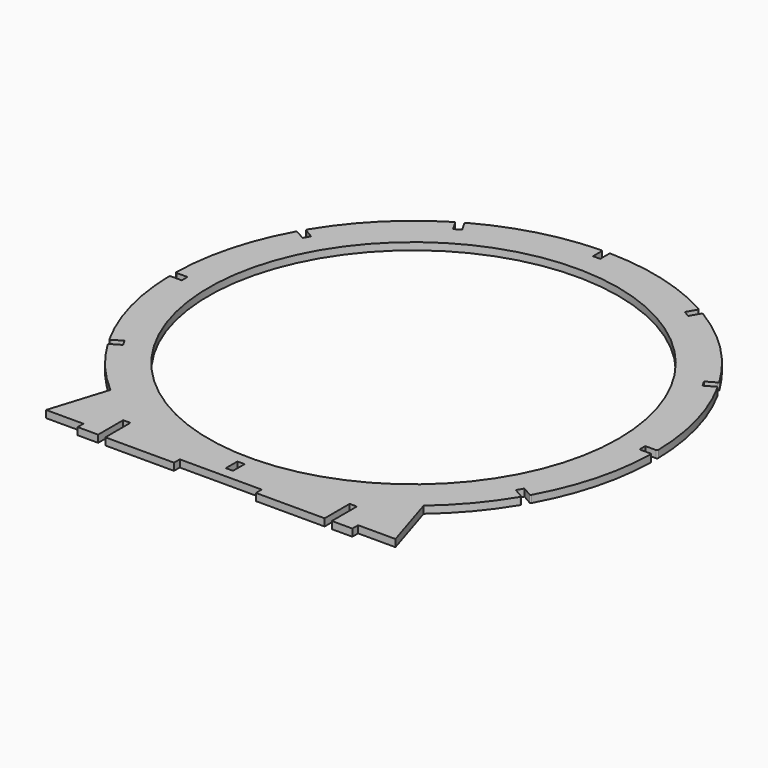
from build123d import *

# Parameters (mm, degrees)
F0_W     = 3
F0_H     = 6
F0_R     = 85
F1_DEPTH = 3


with BuildPart() as f1:
    # F0 (on Top) → F1 (new body)
    with BuildSketch(Plane.XY):
        with BuildLine():
            ThreePointArc((-1.5, 99.479897), (-1.650018, 99.836986), (-2.01005, 99.979796))
            ThreePointArc((-2.01005, 99.979796), (-25.881905, 96.592583), (-48.249144, 87.590069))
            ThreePointArc((-48.249144, 87.590069), (-48.489536, 87.286376), (-48.440911, 86.902118))
            Line((-48.440911, 86.902118), (-46.195337, 83.01267))
            Line((-46.195337, 83.01267), (-48.793413, 81.51267))
            Line((-48.793413, 81.51267), (-51.038987, 85.402118))
            ThreePointArc((-51.038987, 85.402118), (-51.347451, 85.636358), (-51.730653, 85.580018))
            ThreePointArc((-51.730653, 85.580018), (-70.710678, 70.710678), (-85.580018, 51.730653))
            ThreePointArc((-85.580018, 51.730653), (-85.636358, 51.347451), (-85.402118, 51.038987))
            Line((-85.402118, 51.038987), (-81.51267, 48.793413))
            Line((-81.51267, 48.793413), (-83.01267, 46.195337))
            Line((-83.01267, 46.195337), (-86.902118, 48.440911))
            ThreePointArc((-86.902118, 48.440911), (-87.286376, 48.489536), (-87.590069, 48.249144))
            ThreePointArc((-87.590069, 48.249144), (-96.592583, 25.881905), (-99.979796, 2.01005))
            ThreePointArc((-99.979796, 2.01005), (-99.836986, 1.650018), (-99.479897, 1.5))
            Line((-99.479897, 1.5), (-94.988749, 1.5))
            Line((-94.988749, 1.5), (-94.988749, -1.5))
            Line((-94.988749, -1.5), (-99.479897, -1.5))
            ThreePointArc((-99.479897, -1.5), (-99.836986, -1.650018), (-99.979796, -2.01005))
            ThreePointArc((-99.979796, -2.01005), (-96.592583, -25.881905), (-87.590069, -48.249144))
            ThreePointArc((-87.590069, -48.249144), (-87.286376, -48.489536), (-86.902118, -48.440911))
            Line((-86.902118, -48.440911), (-83.01267, -46.195337))
            Line((-83.01267, -46.195337), (-81.51267, -48.793413))
            Line((-81.51267, -48.793413), (-85.402118, -51.038987))
            ThreePointArc((-85.402118, -51.038987), (-85.636358, -51.347451), (-85.580018, -51.730653))
            ThreePointArc((-85.580018, -51.730653), (-76.261104, -64.685733), (-65, -75.993421))
            Line((-65, -75.993421), (-72.5, -100))
            Line((-72.5, -100), (-57, -100))
            Line((-57, -100), (-57, -103))
            Line((-57, -103), (-48.5, -103))
            Line((-48.5, -103), (-48.5, -90))
            Line((-48.5, -90), (-45.5, -90))
            Line((-45.5, -90), (-45.5, -103))
            Line((-45.5, -103), (-17, -103))
            Line((-17, -103), (-17, -100))
            Line((-17, -100), (17, -100))
            Line((17, -100), (17, -103))
            Line((17, -103), (45.5, -103))
            Line((45.5, -103), (45.5, -90))
            Line((45.5, -90), (48.5, -90))
            Line((48.5, -90), (48.5, -103))
            Line((48.5, -103), (57, -103))
            Line((57, -103), (57, -100))
            Line((57, -100), (72.5, -100))
            Line((72.5, -100), (65, -75.993421))
            ThreePointArc((65, -75.993421), (76.261104, -64.685733), (85.580018, -51.730653))
            ThreePointArc((85.580018, -51.730653), (85.636358, -51.347451), (85.402118, -51.038987))
            Line((85.402118, -51.038987), (81.51267, -48.793413))
            Line((81.51267, -48.793413), (83.01267, -46.195337))
            Line((83.01267, -46.195337), (86.902118, -48.440911))
            ThreePointArc((86.902118, -48.440911), (87.286376, -48.489536), (87.590069, -48.249144))
            ThreePointArc((87.590069, -48.249144), (96.592583, -25.881905), (99.979796, -2.01005))
            ThreePointArc((99.979796, -2.01005), (99.836986, -1.650018), (99.479897, -1.5))
            Line((99.479897, -1.5), (94.988749, -1.5))
            Line((94.988749, -1.5), (94.988749, 1.5))
            Line((94.988749, 1.5), (99.479897, 1.5))
            ThreePointArc((99.479897, 1.5), (99.836986, 1.650018), (99.979796, 2.01005))
            ThreePointArc((99.979796, 2.01005), (96.592583, 25.881905), (87.590069, 48.249144))
            ThreePointArc((87.590069, 48.249144), (87.286376, 48.489536), (86.902118, 48.440911))
            Line((86.902118, 48.440911), (83.01267, 46.195337))
            Line((83.01267, 46.195337), (81.51267, 48.793413))
            Line((81.51267, 48.793413), (85.402118, 51.038987))
            ThreePointArc((85.402118, 51.038987), (85.636358, 51.347451), (85.580018, 51.730653))
            ThreePointArc((85.580018, 51.730653), (70.710678, 70.710678), (51.730653, 85.580018))
            ThreePointArc((51.730653, 85.580018), (51.347451, 85.636358), (51.038987, 85.402118))
            Line((51.038987, 85.402118), (48.793413, 81.51267))
            Line((48.793413, 81.51267), (46.195337, 83.01267))
            Line((46.195337, 83.01267), (48.440911, 86.902118))
            ThreePointArc((48.440911, 86.902118), (48.489536, 87.286376), (48.249144, 87.590069))
            ThreePointArc((48.249144, 87.590069), (25.881905, 96.592583), (2.01005, 99.979796))
            ThreePointArc((2.01005, 99.979796), (1.650018, 99.836986), (1.5, 99.479897))
            Line((1.5, 99.479897), (1.5, 94.988749))
            Line((1.5, 94.988749), (-1.5, 94.988749))
            Line((-1.5, 94.988749), (-1.5, 99.479897))
        make_face()
        with Locations((0, -92.5)):
            Rectangle(F0_W, F0_H, mode=Mode.SUBTRACT)
        Circle(F0_R, mode=Mode.SUBTRACT)
        with BuildLine():
            ThreePointArc((-1.5, 99.479897), (-1.650018, 99.836986), (-2.01005, 99.979796))
            ThreePointArc((-2.01005, 99.979796), (-25.881905, 96.592583), (-48.249144, 87.590069))
            ThreePointArc((-48.249144, 87.590069), (-48.489536, 87.286376), (-48.440911, 86.902118))
            Line((-48.440911, 86.902118), (-46.195337, 83.01267))
            Line((-46.195337, 83.01267), (-48.793413, 81.51267))
            Line((-48.793413, 81.51267), (-51.038987, 85.402118))
            ThreePointArc((-51.038987, 85.402118), (-51.347451, 85.636358), (-51.730653, 85.580018))
            ThreePointArc((-51.730653, 85.580018), (-70.710678, 70.710678), (-85.580018, 51.730653))
            ThreePointArc((-85.580018, 51.730653), (-85.636358, 51.347451), (-85.402118, 51.038987))
            Line((-85.402118, 51.038987), (-81.51267, 48.793413))
            Line((-81.51267, 48.793413), (-83.01267, 46.195337))
            Line((-83.01267, 46.195337), (-86.902118, 48.440911))
            ThreePointArc((-86.902118, 48.440911), (-87.286376, 48.489536), (-87.590069, 48.249144))
            ThreePointArc((-87.590069, 48.249144), (-96.592583, 25.881905), (-99.979796, 2.01005))
            ThreePointArc((-99.979796, 2.01005), (-99.836986, 1.650018), (-99.479897, 1.5))
            Line((-99.479897, 1.5), (-94.988749, 1.5))
            Line((-94.988749, 1.5), (-94.988749, -1.5))
            Line((-94.988749, -1.5), (-99.479897, -1.5))
            ThreePointArc((-99.479897, -1.5), (-99.836986, -1.650018), (-99.979796, -2.01005))
            ThreePointArc((-99.979796, -2.01005), (-96.592583, -25.881905), (-87.590069, -48.249144))
            ThreePointArc((-87.590069, -48.249144), (-87.286376, -48.489536), (-86.902118, -48.440911))
            Line((-86.902118, -48.440911), (-83.01267, -46.195337))
            Line((-83.01267, -46.195337), (-81.51267, -48.793413))
            Line((-81.51267, -48.793413), (-85.402118, -51.038987))
            ThreePointArc((-85.402118, -51.038987), (-85.636358, -51.347451), (-85.580018, -51.730653))
            ThreePointArc((-85.580018, -51.730653), (-76.261104, -64.685733), (-65, -75.993421))
            Line((-65, -75.993421), (-72.5, -100))
            Line((-72.5, -100), (-57, -100))
            Line((-57, -100), (-57, -103))
            Line((-57, -103), (-48.5, -103))
            Line((-48.5, -103), (-48.5, -90))
            Line((-48.5, -90), (-45.5, -90))
            Line((-45.5, -90), (-45.5, -103))
            Line((-45.5, -103), (-17, -103))
            Line((-17, -103), (-17, -100))
            Line((-17, -100), (17, -100))
            Line((17, -100), (17, -103))
            Line((17, -103), (45.5, -103))
            Line((45.5, -103), (45.5, -90))
            Line((45.5, -90), (48.5, -90))
            Line((48.5, -90), (48.5, -103))
            Line((48.5, -103), (57, -103))
            Line((57, -103), (57, -100))
            Line((57, -100), (72.5, -100))
            Line((72.5, -100), (65, -75.993421))
            ThreePointArc((65, -75.993421), (76.261104, -64.685733), (85.580018, -51.730653))
            ThreePointArc((85.580018, -51.730653), (85.636358, -51.347451), (85.402118, -51.038987))
            Line((85.402118, -51.038987), (81.51267, -48.793413))
            Line((81.51267, -48.793413), (83.01267, -46.195337))
            Line((83.01267, -46.195337), (86.902118, -48.440911))
            ThreePointArc((86.902118, -48.440911), (87.286376, -48.489536), (87.590069, -48.249144))
            ThreePointArc((87.590069, -48.249144), (96.592583, -25.881905), (99.979796, -2.01005))
            ThreePointArc((99.979796, -2.01005), (99.836986, -1.650018), (99.479897, -1.5))
            Line((99.479897, -1.5), (94.988749, -1.5))
            Line((94.988749, -1.5), (94.988749, 1.5))
            Line((94.988749, 1.5), (99.479897, 1.5))
            ThreePointArc((99.479897, 1.5), (99.836986, 1.650018), (99.979796, 2.01005))
            ThreePointArc((99.979796, 2.01005), (96.592583, 25.881905), (87.590069, 48.249144))
            ThreePointArc((87.590069, 48.249144), (87.286376, 48.489536), (86.902118, 48.440911))
            Line((86.902118, 48.440911), (83.01267, 46.195337))
            Line((83.01267, 46.195337), (81.51267, 48.793413))
            Line((81.51267, 48.793413), (85.402118, 51.038987))
            ThreePointArc((85.402118, 51.038987), (85.636358, 51.347451), (85.580018, 51.730653))
            ThreePointArc((85.580018, 51.730653), (70.710678, 70.710678), (51.730653, 85.580018))
            ThreePointArc((51.730653, 85.580018), (51.347451, 85.636358), (51.038987, 85.402118))
            Line((51.038987, 85.402118), (48.793413, 81.51267))
            Line((48.793413, 81.51267), (46.195337, 83.01267))
            Line((46.195337, 83.01267), (48.440911, 86.902118))
            ThreePointArc((48.440911, 86.902118), (48.489536, 87.286376), (48.249144, 87.590069))
            ThreePointArc((48.249144, 87.590069), (25.881905, 96.592583), (2.01005, 99.979796))
            ThreePointArc((2.01005, 99.979796), (1.650018, 99.836986), (1.5, 99.479897))
            Line((1.5, 99.479897), (1.5, 94.988749))
            Line((1.5, 94.988749), (-1.5, 94.988749))
            Line((-1.5, 94.988749), (-1.5, 99.479897))
        make_face()
        with Locations((0, -92.5)):
            Rectangle(F0_W, F0_H, mode=Mode.SUBTRACT)
        Circle(F0_R, mode=Mode.SUBTRACT)
        with BuildLine():
            ThreePointArc((-1.5, 99.479897), (-1.650018, 99.836986), (-2.01005, 99.979796))
            ThreePointArc((-2.01005, 99.979796), (-25.881905, 96.592583), (-48.249144, 87.590069))
            ThreePointArc((-48.249144, 87.590069), (-48.489536, 87.286376), (-48.440911, 86.902118))
            Line((-48.440911, 86.902118), (-46.195337, 83.01267))
            Line((-46.195337, 83.01267), (-48.793413, 81.51267))
            Line((-48.793413, 81.51267), (-51.038987, 85.402118))
            ThreePointArc((-51.038987, 85.402118), (-51.347451, 85.636358), (-51.730653, 85.580018))
            ThreePointArc((-51.730653, 85.580018), (-70.710678, 70.710678), (-85.580018, 51.730653))
            ThreePointArc((-85.580018, 51.730653), (-85.636358, 51.347451), (-85.402118, 51.038987))
            Line((-85.402118, 51.038987), (-81.51267, 48.793413))
            Line((-81.51267, 48.793413), (-83.01267, 46.195337))
            Line((-83.01267, 46.195337), (-86.902118, 48.440911))
            ThreePointArc((-86.902118, 48.440911), (-87.286376, 48.489536), (-87.590069, 48.249144))
            ThreePointArc((-87.590069, 48.249144), (-96.592583, 25.881905), (-99.979796, 2.01005))
            ThreePointArc((-99.979796, 2.01005), (-99.836986, 1.650018), (-99.479897, 1.5))
            Line((-99.479897, 1.5), (-94.988749, 1.5))
            Line((-94.988749, 1.5), (-94.988749, -1.5))
            Line((-94.988749, -1.5), (-99.479897, -1.5))
            ThreePointArc((-99.479897, -1.5), (-99.836986, -1.650018), (-99.979796, -2.01005))
            ThreePointArc((-99.979796, -2.01005), (-96.592583, -25.881905), (-87.590069, -48.249144))
            ThreePointArc((-87.590069, -48.249144), (-87.286376, -48.489536), (-86.902118, -48.440911))
            Line((-86.902118, -48.440911), (-83.01267, -46.195337))
            Line((-83.01267, -46.195337), (-81.51267, -48.793413))
            Line((-81.51267, -48.793413), (-85.402118, -51.038987))
            ThreePointArc((-85.402118, -51.038987), (-85.636358, -51.347451), (-85.580018, -51.730653))
            ThreePointArc((-85.580018, -51.730653), (-76.261104, -64.685733), (-65, -75.993421))
            Line((-65, -75.993421), (-72.5, -100))
            Line((-72.5, -100), (-57, -100))
            Line((-57, -100), (-57, -103))
            Line((-57, -103), (-48.5, -103))
            Line((-48.5, -103), (-48.5, -90))
            Line((-48.5, -90), (-45.5, -90))
            Line((-45.5, -90), (-45.5, -103))
            Line((-45.5, -103), (-17, -103))
            Line((-17, -103), (-17, -100))
            Line((-17, -100), (17, -100))
            Line((17, -100), (17, -103))
            Line((17, -103), (45.5, -103))
            Line((45.5, -103), (45.5, -90))
            Line((45.5, -90), (48.5, -90))
            Line((48.5, -90), (48.5, -103))
            Line((48.5, -103), (57, -103))
            Line((57, -103), (57, -100))
            Line((57, -100), (72.5, -100))
            Line((72.5, -100), (65, -75.993421))
            ThreePointArc((65, -75.993421), (76.261104, -64.685733), (85.580018, -51.730653))
            ThreePointArc((85.580018, -51.730653), (85.636358, -51.347451), (85.402118, -51.038987))
            Line((85.402118, -51.038987), (81.51267, -48.793413))
            Line((81.51267, -48.793413), (83.01267, -46.195337))
            Line((83.01267, -46.195337), (86.902118, -48.440911))
            ThreePointArc((86.902118, -48.440911), (87.286376, -48.489536), (87.590069, -48.249144))
            ThreePointArc((87.590069, -48.249144), (96.592583, -25.881905), (99.979796, -2.01005))
            ThreePointArc((99.979796, -2.01005), (99.836986, -1.650018), (99.479897, -1.5))
            Line((99.479897, -1.5), (94.988749, -1.5))
            Line((94.988749, -1.5), (94.988749, 1.5))
            Line((94.988749, 1.5), (99.479897, 1.5))
            ThreePointArc((99.479897, 1.5), (99.836986, 1.650018), (99.979796, 2.01005))
            ThreePointArc((99.979796, 2.01005), (96.592583, 25.881905), (87.590069, 48.249144))
            ThreePointArc((87.590069, 48.249144), (87.286376, 48.489536), (86.902118, 48.440911))
            Line((86.902118, 48.440911), (83.01267, 46.195337))
            Line((83.01267, 46.195337), (81.51267, 48.793413))
            Line((81.51267, 48.793413), (85.402118, 51.038987))
            ThreePointArc((85.402118, 51.038987), (85.636358, 51.347451), (85.580018, 51.730653))
            ThreePointArc((85.580018, 51.730653), (70.710678, 70.710678), (51.730653, 85.580018))
            ThreePointArc((51.730653, 85.580018), (51.347451, 85.636358), (51.038987, 85.402118))
            Line((51.038987, 85.402118), (48.793413, 81.51267))
            Line((48.793413, 81.51267), (46.195337, 83.01267))
            Line((46.195337, 83.01267), (48.440911, 86.902118))
            ThreePointArc((48.440911, 86.902118), (48.489536, 87.286376), (48.249144, 87.590069))
            ThreePointArc((48.249144, 87.590069), (25.881905, 96.592583), (2.01005, 99.979796))
            ThreePointArc((2.01005, 99.979796), (1.650018, 99.836986), (1.5, 99.479897))
            Line((1.5, 99.479897), (1.5, 94.988749))
            Line((1.5, 94.988749), (-1.5, 94.988749))
            Line((-1.5, 94.988749), (-1.5, 99.479897))
        make_face()
        with Locations((0, -92.5)):
            Rectangle(F0_W, F0_H, mode=Mode.SUBTRACT)
        Circle(F0_R, mode=Mode.SUBTRACT)
        with BuildLine():
            ThreePointArc((-1.5, 99.479897), (-1.650018, 99.836986), (-2.01005, 99.979796))
            ThreePointArc((-2.01005, 99.979796), (-25.881905, 96.592583), (-48.249144, 87.590069))
            ThreePointArc((-48.249144, 87.590069), (-48.489536, 87.286376), (-48.440911, 86.902118))
            Line((-48.440911, 86.902118), (-46.195337, 83.01267))
            Line((-46.195337, 83.01267), (-48.793413, 81.51267))
            Line((-48.793413, 81.51267), (-51.038987, 85.402118))
            ThreePointArc((-51.038987, 85.402118), (-51.347451, 85.636358), (-51.730653, 85.580018))
            ThreePointArc((-51.730653, 85.580018), (-70.710678, 70.710678), (-85.580018, 51.730653))
            ThreePointArc((-85.580018, 51.730653), (-85.636358, 51.347451), (-85.402118, 51.038987))
            Line((-85.402118, 51.038987), (-81.51267, 48.793413))
            Line((-81.51267, 48.793413), (-83.01267, 46.195337))
            Line((-83.01267, 46.195337), (-86.902118, 48.440911))
            ThreePointArc((-86.902118, 48.440911), (-87.286376, 48.489536), (-87.590069, 48.249144))
            ThreePointArc((-87.590069, 48.249144), (-96.592583, 25.881905), (-99.979796, 2.01005))
            ThreePointArc((-99.979796, 2.01005), (-99.836986, 1.650018), (-99.479897, 1.5))
            Line((-99.479897, 1.5), (-94.988749, 1.5))
            Line((-94.988749, 1.5), (-94.988749, -1.5))
            Line((-94.988749, -1.5), (-99.479897, -1.5))
            ThreePointArc((-99.479897, -1.5), (-99.836986, -1.650018), (-99.979796, -2.01005))
            ThreePointArc((-99.979796, -2.01005), (-96.592583, -25.881905), (-87.590069, -48.249144))
            ThreePointArc((-87.590069, -48.249144), (-87.286376, -48.489536), (-86.902118, -48.440911))
            Line((-86.902118, -48.440911), (-83.01267, -46.195337))
            Line((-83.01267, -46.195337), (-81.51267, -48.793413))
            Line((-81.51267, -48.793413), (-85.402118, -51.038987))
            ThreePointArc((-85.402118, -51.038987), (-85.636358, -51.347451), (-85.580018, -51.730653))
            ThreePointArc((-85.580018, -51.730653), (-76.261104, -64.685733), (-65, -75.993421))
            Line((-65, -75.993421), (-72.5, -100))
            Line((-72.5, -100), (-57, -100))
            Line((-57, -100), (-57, -103))
            Line((-57, -103), (-48.5, -103))
            Line((-48.5, -103), (-48.5, -90))
            Line((-48.5, -90), (-45.5, -90))
            Line((-45.5, -90), (-45.5, -103))
            Line((-45.5, -103), (-17, -103))
            Line((-17, -103), (-17, -100))
            Line((-17, -100), (17, -100))
            Line((17, -100), (17, -103))
            Line((17, -103), (45.5, -103))
            Line((45.5, -103), (45.5, -90))
            Line((45.5, -90), (48.5, -90))
            Line((48.5, -90), (48.5, -103))
            Line((48.5, -103), (57, -103))
            Line((57, -103), (57, -100))
            Line((57, -100), (72.5, -100))
            Line((72.5, -100), (65, -75.993421))
            ThreePointArc((65, -75.993421), (76.261104, -64.685733), (85.580018, -51.730653))
            ThreePointArc((85.580018, -51.730653), (85.636358, -51.347451), (85.402118, -51.038987))
            Line((85.402118, -51.038987), (81.51267, -48.793413))
            Line((81.51267, -48.793413), (83.01267, -46.195337))
            Line((83.01267, -46.195337), (86.902118, -48.440911))
            ThreePointArc((86.902118, -48.440911), (87.286376, -48.489536), (87.590069, -48.249144))
            ThreePointArc((87.590069, -48.249144), (96.592583, -25.881905), (99.979796, -2.01005))
            ThreePointArc((99.979796, -2.01005), (99.836986, -1.650018), (99.479897, -1.5))
            Line((99.479897, -1.5), (94.988749, -1.5))
            Line((94.988749, -1.5), (94.988749, 1.5))
            Line((94.988749, 1.5), (99.479897, 1.5))
            ThreePointArc((99.479897, 1.5), (99.836986, 1.650018), (99.979796, 2.01005))
            ThreePointArc((99.979796, 2.01005), (96.592583, 25.881905), (87.590069, 48.249144))
            ThreePointArc((87.590069, 48.249144), (87.286376, 48.489536), (86.902118, 48.440911))
            Line((86.902118, 48.440911), (83.01267, 46.195337))
            Line((83.01267, 46.195337), (81.51267, 48.793413))
            Line((81.51267, 48.793413), (85.402118, 51.038987))
            ThreePointArc((85.402118, 51.038987), (85.636358, 51.347451), (85.580018, 51.730653))
            ThreePointArc((85.580018, 51.730653), (70.710678, 70.710678), (51.730653, 85.580018))
            ThreePointArc((51.730653, 85.580018), (51.347451, 85.636358), (51.038987, 85.402118))
            Line((51.038987, 85.402118), (48.793413, 81.51267))
            Line((48.793413, 81.51267), (46.195337, 83.01267))
            Line((46.195337, 83.01267), (48.440911, 86.902118))
            ThreePointArc((48.440911, 86.902118), (48.489536, 87.286376), (48.249144, 87.590069))
            ThreePointArc((48.249144, 87.590069), (25.881905, 96.592583), (2.01005, 99.979796))
            ThreePointArc((2.01005, 99.979796), (1.650018, 99.836986), (1.5, 99.479897))
            Line((1.5, 99.479897), (1.5, 94.988749))
            Line((1.5, 94.988749), (-1.5, 94.988749))
            Line((-1.5, 94.988749), (-1.5, 99.479897))
        make_face()
        with Locations((0, -92.5)):
            Rectangle(F0_W, F0_H, mode=Mode.SUBTRACT)
        Circle(F0_R, mode=Mode.SUBTRACT)
        with BuildLine():
            ThreePointArc((-1.5, 99.479897), (-1.650018, 99.836986), (-2.01005, 99.979796))
            ThreePointArc((-2.01005, 99.979796), (-25.881905, 96.592583), (-48.249144, 87.590069))
            ThreePointArc((-48.249144, 87.590069), (-48.489536, 87.286376), (-48.440911, 86.902118))
            Line((-48.440911, 86.902118), (-46.195337, 83.01267))
            Line((-46.195337, 83.01267), (-48.793413, 81.51267))
            Line((-48.793413, 81.51267), (-51.038987, 85.402118))
            ThreePointArc((-51.038987, 85.402118), (-51.347451, 85.636358), (-51.730653, 85.580018))
            ThreePointArc((-51.730653, 85.580018), (-70.710678, 70.710678), (-85.580018, 51.730653))
            ThreePointArc((-85.580018, 51.730653), (-85.636358, 51.347451), (-85.402118, 51.038987))
            Line((-85.402118, 51.038987), (-81.51267, 48.793413))
            Line((-81.51267, 48.793413), (-83.01267, 46.195337))
            Line((-83.01267, 46.195337), (-86.902118, 48.440911))
            ThreePointArc((-86.902118, 48.440911), (-87.286376, 48.489536), (-87.590069, 48.249144))
            ThreePointArc((-87.590069, 48.249144), (-96.592583, 25.881905), (-99.979796, 2.01005))
            ThreePointArc((-99.979796, 2.01005), (-99.836986, 1.650018), (-99.479897, 1.5))
            Line((-99.479897, 1.5), (-94.988749, 1.5))
            Line((-94.988749, 1.5), (-94.988749, -1.5))
            Line((-94.988749, -1.5), (-99.479897, -1.5))
            ThreePointArc((-99.479897, -1.5), (-99.836986, -1.650018), (-99.979796, -2.01005))
            ThreePointArc((-99.979796, -2.01005), (-96.592583, -25.881905), (-87.590069, -48.249144))
            ThreePointArc((-87.590069, -48.249144), (-87.286376, -48.489536), (-86.902118, -48.440911))
            Line((-86.902118, -48.440911), (-83.01267, -46.195337))
            Line((-83.01267, -46.195337), (-81.51267, -48.793413))
            Line((-81.51267, -48.793413), (-85.402118, -51.038987))
            ThreePointArc((-85.402118, -51.038987), (-85.636358, -51.347451), (-85.580018, -51.730653))
            ThreePointArc((-85.580018, -51.730653), (-76.261104, -64.685733), (-65, -75.993421))
            Line((-65, -75.993421), (-72.5, -100))
            Line((-72.5, -100), (-57, -100))
            Line((-57, -100), (-57, -103))
            Line((-57, -103), (-48.5, -103))
            Line((-48.5, -103), (-48.5, -90))
            Line((-48.5, -90), (-45.5, -90))
            Line((-45.5, -90), (-45.5, -103))
            Line((-45.5, -103), (-17, -103))
            Line((-17, -103), (-17, -100))
            Line((-17, -100), (17, -100))
            Line((17, -100), (17, -103))
            Line((17, -103), (45.5, -103))
            Line((45.5, -103), (45.5, -90))
            Line((45.5, -90), (48.5, -90))
            Line((48.5, -90), (48.5, -103))
            Line((48.5, -103), (57, -103))
            Line((57, -103), (57, -100))
            Line((57, -100), (72.5, -100))
            Line((72.5, -100), (65, -75.993421))
            ThreePointArc((65, -75.993421), (76.261104, -64.685733), (85.580018, -51.730653))
            ThreePointArc((85.580018, -51.730653), (85.636358, -51.347451), (85.402118, -51.038987))
            Line((85.402118, -51.038987), (81.51267, -48.793413))
            Line((81.51267, -48.793413), (83.01267, -46.195337))
            Line((83.01267, -46.195337), (86.902118, -48.440911))
            ThreePointArc((86.902118, -48.440911), (87.286376, -48.489536), (87.590069, -48.249144))
            ThreePointArc((87.590069, -48.249144), (96.592583, -25.881905), (99.979796, -2.01005))
            ThreePointArc((99.979796, -2.01005), (99.836986, -1.650018), (99.479897, -1.5))
            Line((99.479897, -1.5), (94.988749, -1.5))
            Line((94.988749, -1.5), (94.988749, 1.5))
            Line((94.988749, 1.5), (99.479897, 1.5))
            ThreePointArc((99.479897, 1.5), (99.836986, 1.650018), (99.979796, 2.01005))
            ThreePointArc((99.979796, 2.01005), (96.592583, 25.881905), (87.590069, 48.249144))
            ThreePointArc((87.590069, 48.249144), (87.286376, 48.489536), (86.902118, 48.440911))
            Line((86.902118, 48.440911), (83.01267, 46.195337))
            Line((83.01267, 46.195337), (81.51267, 48.793413))
            Line((81.51267, 48.793413), (85.402118, 51.038987))
            ThreePointArc((85.402118, 51.038987), (85.636358, 51.347451), (85.580018, 51.730653))
            ThreePointArc((85.580018, 51.730653), (70.710678, 70.710678), (51.730653, 85.580018))
            ThreePointArc((51.730653, 85.580018), (51.347451, 85.636358), (51.038987, 85.402118))
            Line((51.038987, 85.402118), (48.793413, 81.51267))
            Line((48.793413, 81.51267), (46.195337, 83.01267))
            Line((46.195337, 83.01267), (48.440911, 86.902118))
            ThreePointArc((48.440911, 86.902118), (48.489536, 87.286376), (48.249144, 87.590069))
            ThreePointArc((48.249144, 87.590069), (25.881905, 96.592583), (2.01005, 99.979796))
            ThreePointArc((2.01005, 99.979796), (1.650018, 99.836986), (1.5, 99.479897))
            Line((1.5, 99.479897), (1.5, 94.988749))
            Line((1.5, 94.988749), (-1.5, 94.988749))
            Line((-1.5, 94.988749), (-1.5, 99.479897))
        make_face()
        with Locations((0, -92.5)):
            Rectangle(F0_W, F0_H, mode=Mode.SUBTRACT)
        Circle(F0_R, mode=Mode.SUBTRACT)
    extrude(amount=F1_DEPTH)


solid = f1.part
